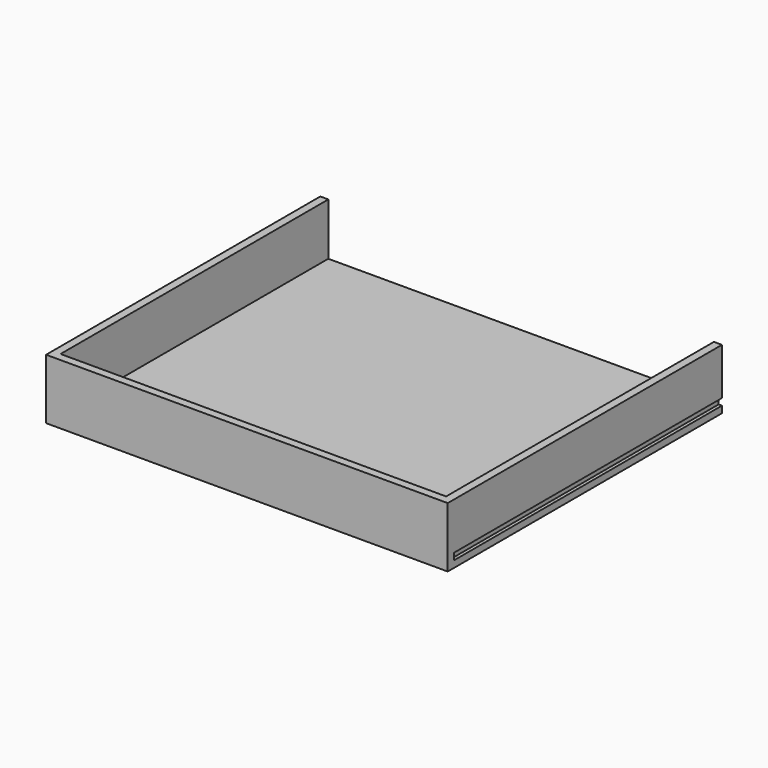
from build123d import *

# Parameters (mm, degrees)
F1_DEPTH = 500
F2_W     = 600
F2_H     = 90
F3_DEPTH = 12


with BuildPart() as f1:
    # F0 (on Front) → F1 (new body)
    with BuildSketch(Plane.XZ):
        Polygon((288, 12), (-288, 12), (-288, 90), (-300, 90), (-300, 20), (-295, 20), (-295, 10), (-300, 10), (-300, 0), (300, 0), (300, 10), (295, 10), (295, 20), (300, 20), (300, 90), (288, 90), align=None)
    extrude(amount=-F1_DEPTH)

    # F2 (on Front) → F3 (join)
    with BuildSketch(Plane.XZ):
        with Locations((0, 45)):
            Rectangle(F2_W, F2_H)
    extrude(amount=F3_DEPTH)


solid = f1.part
